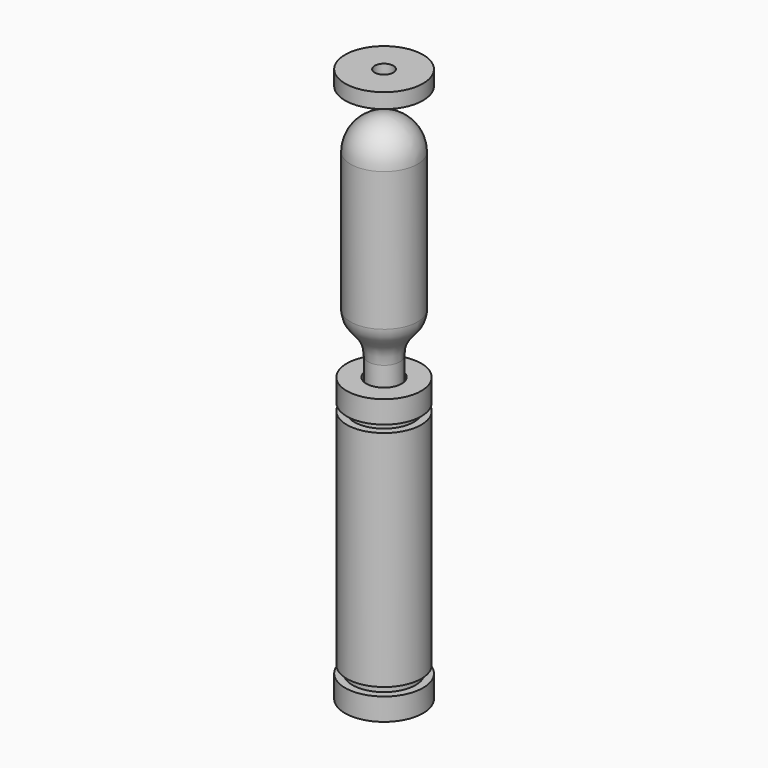
from build123d import *

# Parameters (mm, degrees)
F2_R  = 1.25
F3_T  = -0.5
F6_W  = 7.5
F6_H  = 60
F10_W = 10.4648
F10_H = 4.0129049698
F13_D = 5
F14_W = 4.5
F14_H = 0.5


with BuildPart() as f1:
    # F0 (on Front) → F1 (revolve)
    with BuildSketch(Plane.XZ):
        with BuildLine():
            Line((9, 19), (9, 56.25))
            ThreePointArc((9, 56.25), (6.3639610307, 62.6139610307), (0, 65.25))
            Line((0, 65.25), (0, 0))
            Line((0, 0), (2.25, 0))
            Line((2.25, 0), (2.25, 0.25))
            Line((2.25, 0.25), (4.25, 0.25))
            Line((4.25, 0.25), (4.25, 8))
            add(Edge.make_bspline(
                [(4.25, 8), (4.25, 14.2423890195), (9, 14.2423890195), (9, 19)],
                knots=[0, 0, 0, 0, 11.9817569663, 11.9817569663, 11.9817569663, 11.9817569663], degree=3))
        make_face()
    revolve(axis=Axis((0, 0, 32.625), (0, 0, -1)))

    # F2
    f2_edges = [f1.edges().sort_by_distance(p)[0] for p in [
        (-4.25, 0, 0.25),
    ]]
    fillet(f2_edges, radius=F2_R)

    # F3
    f3_openings = [f1.faces().sort_by_distance(p)[0] for p in [
        (0, 0, 0),
    ]]
    offset(amount=F3_T, openings=f3_openings, kind=Kind.INTERSECTION)


with BuildPart() as f5:
    # F4 (on Front) → F5 (revolve)
    with BuildSketch(Plane.XZ):
        Polygon((10, 3), (4.75, 3), (4.75, -2), (1, -2), (1, -5), (8, -5), (8, -3), (10, -3), align=None)
    revolve(axis=Axis((0, 0, -3.1145633338), (0, 0, 1)))


with BuildPart() as f7:
    # F6 (on Front) → F7 (revolve)
    with BuildSketch(Plane.XZ):
        with Locations((6.25, -35)):
            Rectangle(F6_W, F6_H)
    revolve(axis=Axis((0, 0, -31.2667707913), (0, 0, -1)))


with BuildPart() as f9:
    # F8 (on Front) → F9 (revolve)
    with BuildSketch(Plane.XZ):
        Polygon((8.4648, -65), (2.5, -65), (1.25, -68), (3.5, -73), (10.4648, -73), (10.4648, -67), (8.4648, -67), align=None)
    revolve(axis=Axis((0, 0, -41.9972505594), (0, 0, -1)))


with BuildPart() as f11:
    # F10 (on Front) → F11 (revolve)
    with BuildSketch(Plane.XZ):
        with Locations((5.2324, 73.773756987)):
            Rectangle(F10_W, F10_H)
    revolve(axis=Axis((0, 0, 70.351470398), (0, 0, 1)))

    # F13 (through all)
    with Locations(Plane.XY.offset(75.7802094719)):
        with Locations((0, 0)):
            Hole(F13_D / 2)


with BuildPart() as f15:
    # F14 (on Front) → F15 (revolve)
    with BuildSketch(Plane.XZ):
        with Locations((2.25, -1.75)):
            Rectangle(F14_W, F14_H)
    revolve(axis=Axis((0, 0, -1.74347904), (0, 0, -1)))


with BuildPart() as f17:
    # F16 (on Front) → F17 (revolve)
    with BuildSketch(Plane.XZ):
        Polygon((1.2025038013, 0), (0.3, 1), (0.3, -0.5), (4.2995481133, -0.5), (4.2995481133, 0), align=None)
    revolve(axis=Axis((0, 0, 1.2492873038), (0, 0, -1)))


solid = Compound([f1.part, f5.part, f7.part, f9.part, f11.part, f15.part, f17.part])
